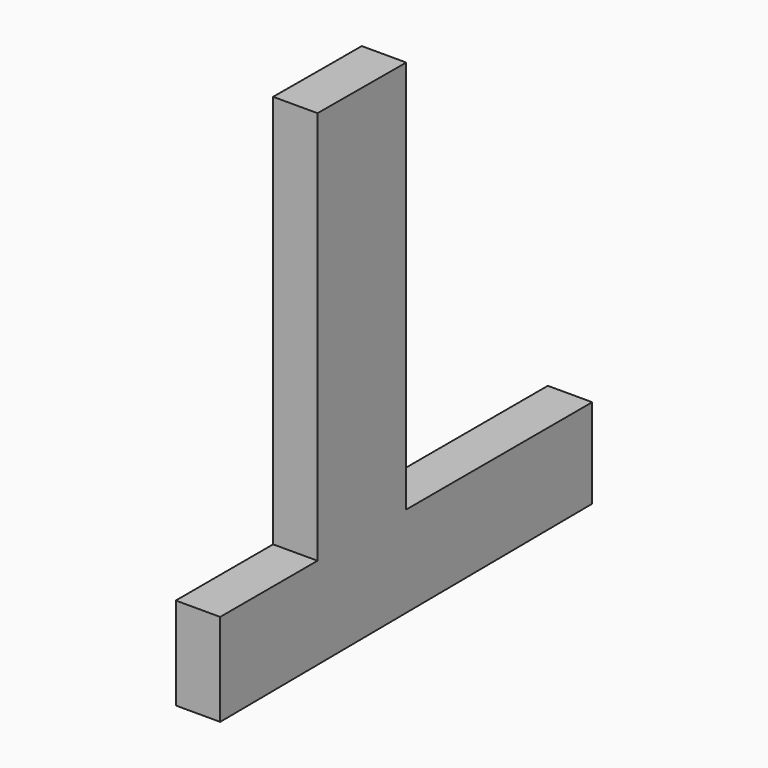
from build123d import *

# Parameters (mm, degrees)
F2_DEPTH = 7.62


with BuildPart() as f2:
    # F1 (on Right) → F2 (new body)
    with BuildSketch(Plane.YZ):
        Polygon((-9.930916, 15.784562), (-9.930916, -51.809832), (9.089336, -51.809832), (9.089336, 15.709758), align=None)
        Polygon((-9.930916, -51.809832), (-30.802712, -51.809832), (-30.802712, -67.667425), (48.981383, -67.146659), (48.981383, -51.809832), (9.089336, -51.809832), align=None)
    extrude(amount=-F2_DEPTH)


solid = f2.part
